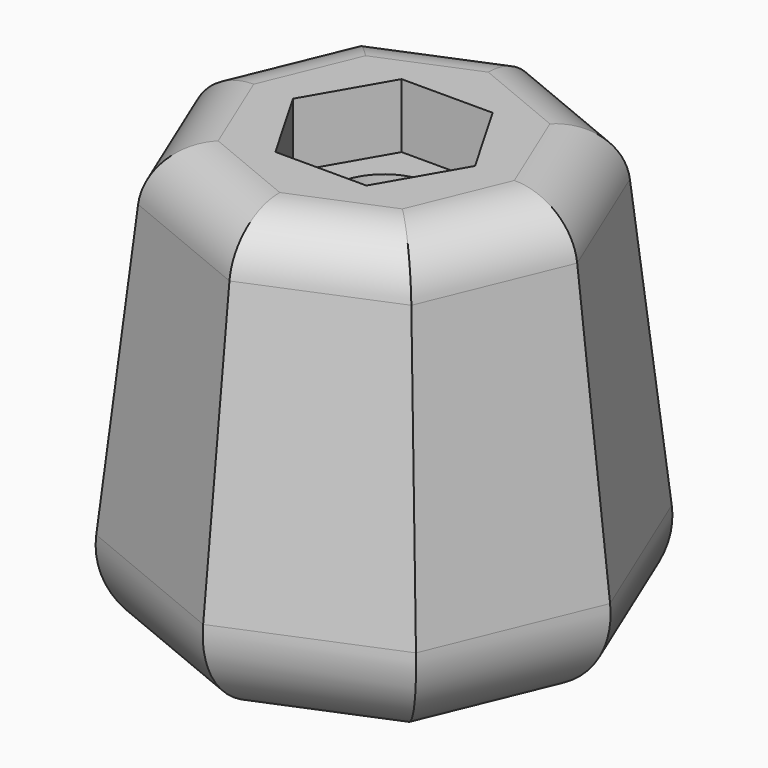
from build123d import *

# Parameters (mm, degrees)
F1_DEPTH = 15
F1_TAPER = 6
F2_R     = 1.8
F3_DEPTH = 15.001
F5_DEPTH = 2.2
F6_R     = 2
F7_R     = 3


with BuildPart() as f1:
    # F0 (on Top) → F1 (new body)
    with BuildSketch(Plane.XY):
        Polygon((-5.7402514855, 5.7402514855), (-8.1179415022, 0), (-5.7402514855, -5.7402514855), (0, -8.1179415022), (5.7402514855, -5.7402514855), (8.1179415022, 0), (5.7402514855, 5.7402514855), (0, 8.1179415022), align=None)
    extrude(amount=F1_DEPTH, taper=F1_TAPER)

    # F2 (on face) → F3 (cut, through all)
    with BuildSketch(Plane.XY.offset(15)):
        Circle(F2_R)
    extrude(amount=-F3_DEPTH, mode=Mode.SUBTRACT)

    # F4 (on face) → F5 (cut)
    with BuildSketch(Plane.XY.offset(15)):
        Polygon((-1.5588457268, 2.7), (-3.1176914536, 0), (-1.5588457268, -2.7), (1.5588457268, -2.7), (3.1176914536, 0), (1.5588457268, 2.7), align=None)
    extrude(amount=-F5_DEPTH, mode=Mode.SUBTRACT)

    # F6
    f6_edges = [f1.edges().sort_by_distance(p)[0] for p in [
        (-5.472542, -2.266801, 15),
        (-2.266801, -5.472542, 15),
        (2.266801, -5.472542, 15),
        (5.472542, -2.266801, 15),
        (5.472542, 2.266801, 15),
        (2.266801, 5.472542, 15),
        (-2.266801, 5.472542, 15),
        (-5.472542, 2.266801, 15),
    ]]
    fillet(f6_edges, radius=F6_R)

    # F7
    f7_edges = [f1.edges().sort_by_distance(p)[0] for p in [
        (-2.870126, -6.929096, 0),
        (-6.929096, -2.870126, 0),
        (2.870126, -6.929096, 0),
        (6.929096, -2.870126, 0),
        (6.929096, 2.870126, 0),
        (2.870126, 6.929096, 0),
        (-2.870126, 6.929096, 0),
        (-6.929096, 2.870126, 0),
    ]]
    fillet(f7_edges, radius=F7_R)


solid = f1.part
